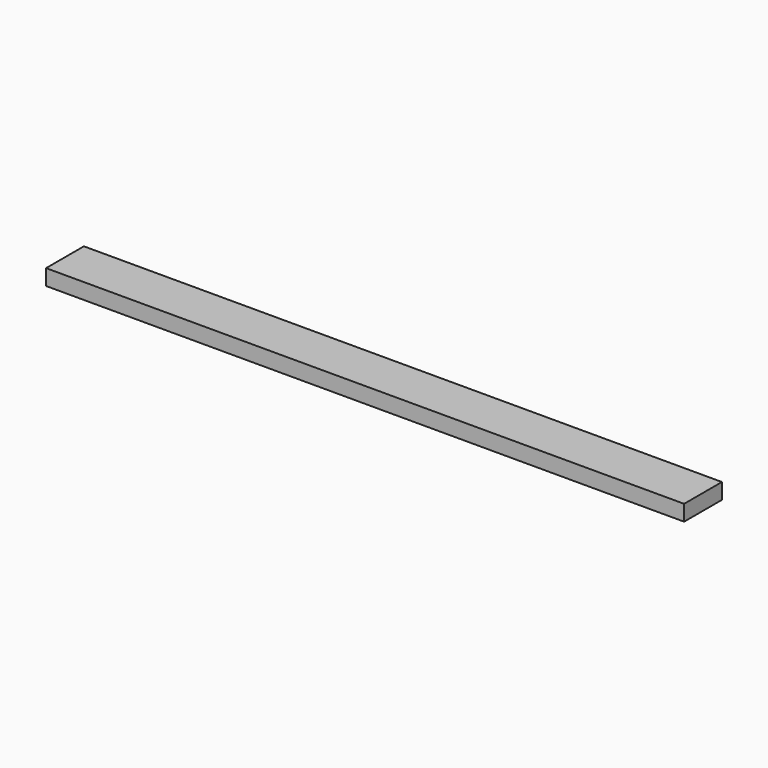
from build123d import *

# Parameters (mm, degrees)
F0_W     = 128.5875
F0_H     = 19.05
F1_DEPTH = 6.35


with BuildPart() as f1:
    # F0 (on Top) → F1 (new body)
    with BuildSketch(Plane.XY):
        Rectangle(F0_W, F0_H)
        with Locations((-128.5875, 0)):
            Rectangle(F0_W, F0_H)
    extrude(amount=F1_DEPTH)


solid = f1.part
